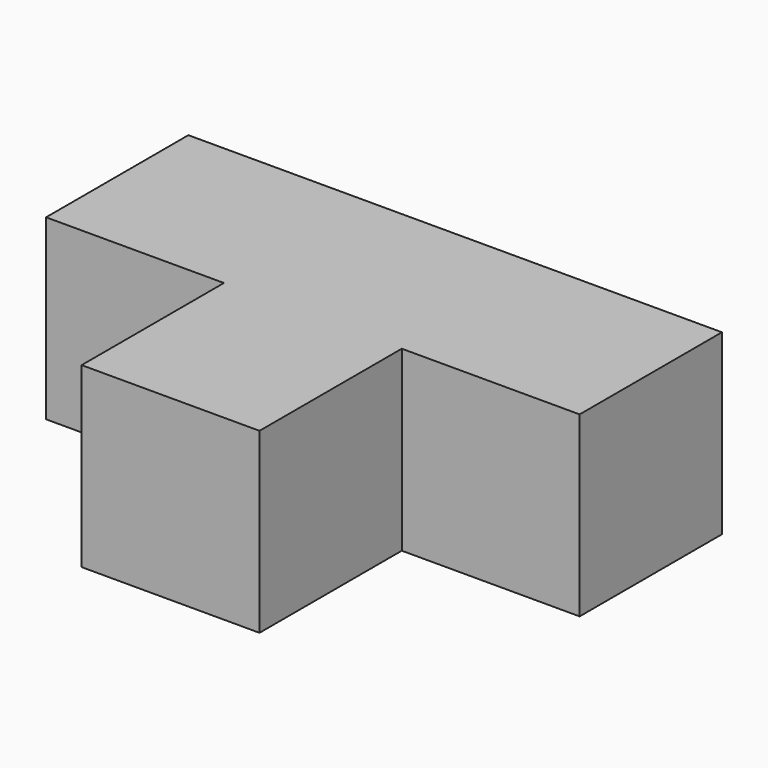
from build123d import *

# Parameters (mm, degrees)
F0_W     = 25.4
F0_H     = 25.4
F1_DEPTH = 50.8
F2_DEPTH = 25.4


with BuildPart() as f1:
    # F0 (on Front) → F1 (new body)
    with BuildSketch(Plane.XZ):
        with Locations((-10.396476, -9.260147)):
            Rectangle(F0_W, F0_H)
    extrude(amount=F1_DEPTH)

    # F0 (on Front) → F2 (join)
    with BuildSketch(Plane.XZ):
        with Locations((-35.796476, -9.260147)):
            Rectangle(F0_W, F0_H)
        with Locations((15.003524, -9.260147)):
            Rectangle(F0_W, F0_H)
    extrude(amount=F2_DEPTH)


solid = f1.part
